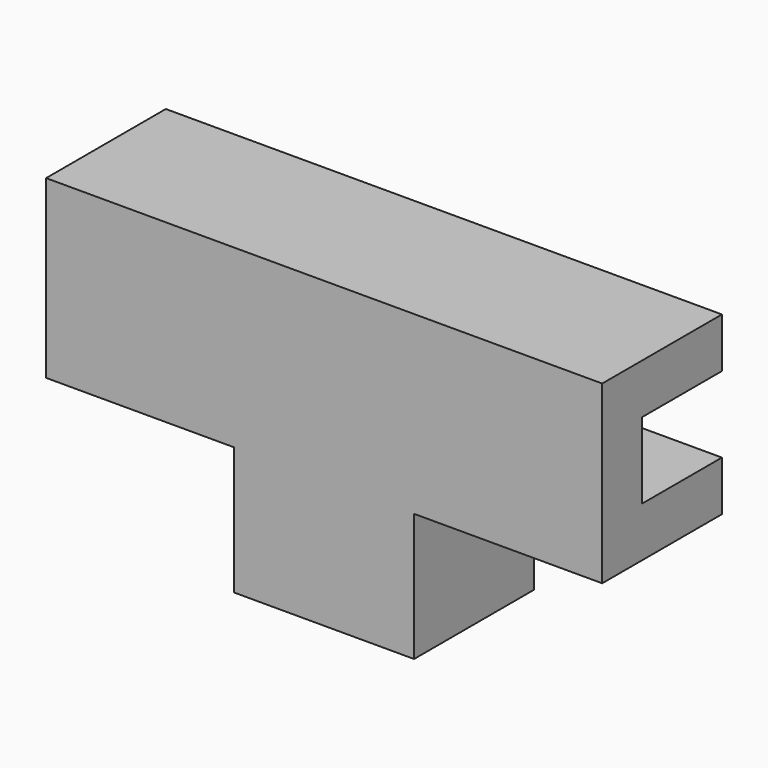
from build123d import *

# Parameters (mm, degrees)
F0_W     = 27.871466
F0_H     = 5
F1_DEPTH = 15
F2_DEPTH = 10


with BuildPart() as f1:
    # F0 (on Front) → F1 (new body)
    with BuildSketch(Plane.XZ):
        Polygon((-4.015, -21.636724), (0, -21.636724), (0, 0), (0, 3.805), (-27.871466, 3.805), (-27.871466, 0), (-27.871466, -3.825), (-4.015, -3.825), align=None)
        Polygon((-9.015, -21.636724), (-4.015, -21.636724), (-4.015, -3.825), (-27.871466, -3.825), (-27.871466, -8.825), (-9.015, -8.825), align=None)
        with Locations((-13.935733, 6.305)):
            Rectangle(F0_W, F0_H)
    extrude(amount=F1_DEPTH)

    # F0 (on Front) → F2 (cut)
    with BuildSketch(Plane.XZ):
        Polygon((-4.015, -21.636724), (0, -21.636724), (0, 0), (0, 3.805), (-27.871466, 3.805), (-27.871466, 0), (-27.871466, -3.825), (-4.015, -3.825), align=None)
    extrude(amount=F2_DEPTH, mode=Mode.SUBTRACT)

    # F3: F1 across plane


with BuildPart() as f1_1:
    add(f1.part)
    add(f1.part.mirror(Plane.YZ))


solid = f1_1.part
